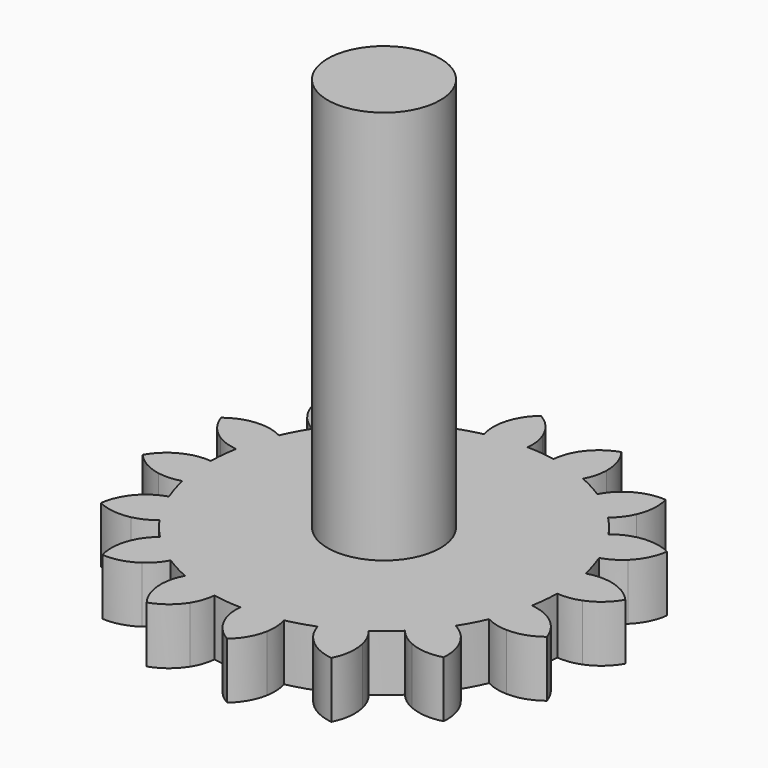
from build123d import *

# Parameters (mm, degrees)
F1_DEPTH = 1.5875
F2_COUNT = 16
F0_R     = 1.5875
F3_DEPTH = 1.5875
F4_DEPTH = 12.7


with BuildPart() as f1:
    # F0 (on Top) → F1 (new body)
    with BuildSketch(Plane.XY):
        with BuildLine():
            ThreePointArc((-1.0511033425, 4.8401849927), (-0.4854788961, 4.9291499512), (0.0866334376, 4.9522422848))
            ThreePointArc((0.0866334376, 4.9522422848), (0.0809330254, 5.2752470416), (0, 5.588))
            ThreePointArc((0, 5.588), (-0.2484578592, 6.0002980681), (-0.6210025483, 6.3051446843))
            ThreePointArc((-0.6210025483, 6.3051446843), (-0.9269162712, 5.933475747), (-1.0901647194, 5.4806281469))
            ThreePointArc((-1.0901647194, 5.4806281469), (-1.1085275641, 5.1580953989), (-1.0511033425, 4.8401849927))
        make_face()
    extrude(amount=F1_DEPTH)


with BuildPart() as f2_1:
    # F2: instance of F1
    add(f1.part.rotate(Axis((0, 0, 0), (0, 0, 1)), 1 * 360 / F2_COUNT))


with BuildPart() as f2_2:
    # F2: instance of F1
    add(f1.part.rotate(Axis((0, 0, 0), (0, 0, 1)), 2 * 360 / F2_COUNT))


with BuildPart() as f2_3:
    # F2: instance of F1
    add(f1.part.rotate(Axis((0, 0, 0), (0, 0, 1)), 3 * 360 / F2_COUNT))


with BuildPart() as f2_4:
    # F2: instance of F1
    add(f1.part.rotate(Axis((0, 0, 0), (0, 0, 1)), 4 * 360 / F2_COUNT))


with BuildPart() as f2_5:
    # F2: instance of F1
    add(f1.part.rotate(Axis((0, 0, 0), (0, 0, 1)), 5 * 360 / F2_COUNT))


with BuildPart() as f2_6:
    # F2: instance of F1
    add(f1.part.rotate(Axis((0, 0, 0), (0, 0, 1)), 6 * 360 / F2_COUNT))


with BuildPart() as f2_7:
    # F2: instance of F1
    add(f1.part.rotate(Axis((0, 0, 0), (0, 0, 1)), 7 * 360 / F2_COUNT))


with BuildPart() as f2_8:
    # F2: instance of F1
    add(f1.part.rotate(Axis((0, 0, 0), (0, 0, 1)), 8 * 360 / F2_COUNT))


with BuildPart() as f2_9:
    # F2: instance of F1
    add(f1.part.rotate(Axis((0, 0, 0), (0, 0, 1)), 9 * 360 / F2_COUNT))


with BuildPart() as f2_10:
    # F2: instance of F1
    add(f1.part.rotate(Axis((0, 0, 0), (0, 0, 1)), 10 * 360 / F2_COUNT))


with BuildPart() as f2_11:
    # F2: instance of F1
    add(f1.part.rotate(Axis((0, 0, 0), (0, 0, 1)), 11 * 360 / F2_COUNT))


with BuildPart() as f2_12:
    # F2: instance of F1
    add(f1.part.rotate(Axis((0, 0, 0), (0, 0, 1)), 12 * 360 / F2_COUNT))


with BuildPart() as f2_13:
    # F2: instance of F1
    add(f1.part.rotate(Axis((0, 0, 0), (0, 0, 1)), 13 * 360 / F2_COUNT))


with BuildPart() as f2_14:
    # F2: instance of F1
    add(f1.part.rotate(Axis((0, 0, 0), (0, 0, 1)), 14 * 360 / F2_COUNT))


with BuildPart() as f2_15:
    # F2: instance of F1
    add(f1.part.rotate(Axis((0, 0, 0), (0, 0, 1)), 15 * 360 / F2_COUNT))


with BuildPart() as f1_1:
    add(f1.part)

    add(f2_1.part)  # F3 merges F2_1

    add(f2_2.part)  # F3 merges F2_2

    add(f2_3.part)  # F3 merges F2_3

    add(f2_4.part)  # F3 merges F2_4

    add(f2_5.part)  # F3 merges F2_5

    add(f2_6.part)  # F3 merges F2_6

    add(f2_7.part)  # F3 merges F2_7

    add(f2_8.part)  # F3 merges F2_8

    add(f2_9.part)  # F3 merges F2_9

    add(f2_10.part)  # F3 merges F2_10

    add(f2_11.part)  # F3 merges F2_11

    add(f2_12.part)  # F3 merges F2_12

    add(f2_13.part)  # F3 merges F2_13

    add(f2_14.part)  # F3 merges F2_14

    add(f2_15.part)  # F3 merges F2_15
    # F0 (on Top) → F3 (join)
    with BuildSketch(Plane.XY):
        with BuildLine():
            ThreePointArc((-1.0511033425, 4.8401849927), (-3.1085442047, -3.8560552288), (4.953, 0))
            ThreePointArc((4.953, 0), (3.5327966554, 3.4715352211), (0.0866334376, 4.9522422848))
            ThreePointArc((0.0866334376, 4.9522422848), (-0.4854788961, 4.9291499512), (-1.0511033425, 4.8401849927))
        make_face()
        Circle(F0_R, mode=Mode.SUBTRACT)
    extrude(amount=F3_DEPTH)

    # F0 (on Top) → F4 (join)
    with BuildSketch(Plane.XY):
        Circle(F0_R)
    extrude(amount=F4_DEPTH)


solid = f1_1.part
